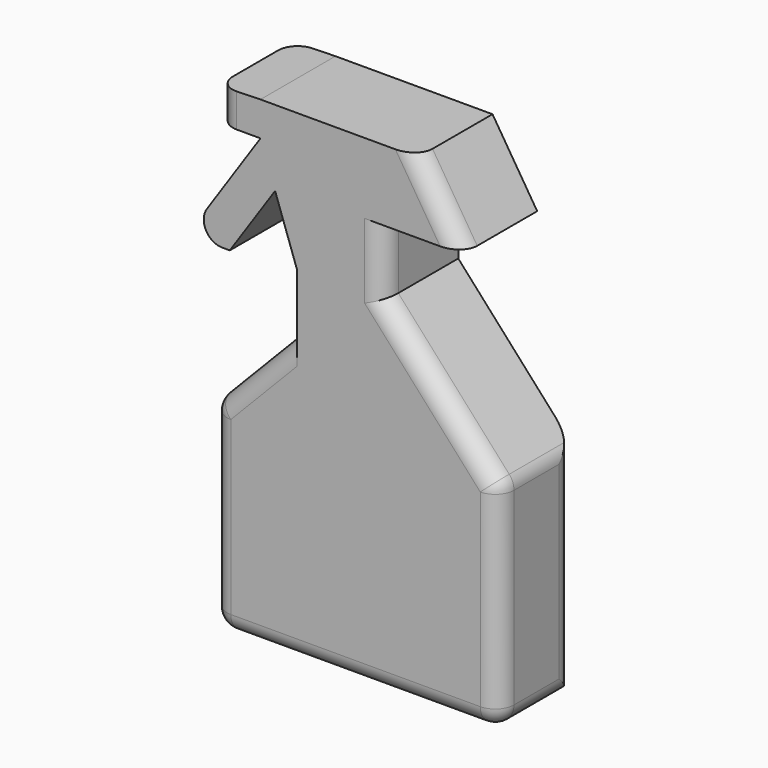
from build123d import *

# Parameters (mm, degrees)
F1_DEPTH = 12.7
F2_R     = 5.08


with BuildPart() as f1:
    # F0 (on Front) → F1 (new body, symmetric)
    with BuildSketch(Plane.XZ):
        Polygon((-42.56532, 53.124823), (-54.08676, 52.804779), (-54.08676, 43.843661), (-42.56532, 43.843661), align=None)
        Polygon((-38.601383, 32.591193), (-42.56532, 43.843661), (-62.407799, 14.399981), (-50.886359, 14.399981), align=None)
        Polygon((-9.281159, 15.680142), (-32.644082, 15.680142), (-32.644082, 0), (-55.686962, -23.803976), (-55.686962, -77.451505), (22.082759, -77.451505), (22.082759, -19.20422), align=None)
        Polygon((0, 53.124823), (-42.56532, 53.124823), (-42.56532, 43.843661), (-38.601383, 32.591193), (-32.644082, 15.680142), (-9.281159, 15.680142), (-9.281159, 33.922419), (12.112285, 33.922419), align=None)
    extrude(amount=F1_DEPTH, both=True)

    # F2
    f2_edges = [f1.edges().sort_by_distance(p)[0] for p in [
        (-55.686962, -12.7, -50.62774),
        (-44.165522, -12.7, -11.901988),
        (-55.686962, 0, -23.803976),
        (-55.686962, 12.7, -50.62774),
        (-55.686962, 0, -77.451505),
        (-16.802101, -12.7, -77.451505),
        (22.082759, -12.7, -48.327862),
        (6.4008, -12.7, -1.762039),
        (-9.281159, -12.7, 24.80128),
        (6.056143, -12.7, 43.523621),
        (-54.08676, -12.7, 48.32422),
        (-54.08676, 12.7, 48.32422),
        (-62.407799, 0, 14.399981),
        (22.082759, 12.7, -48.327862),
        (22.082759, 0, -19.20422),
        (22.082759, 0, -77.451505),
    ]]
    fillet(f2_edges, radius=F2_R)


solid = f1.part
